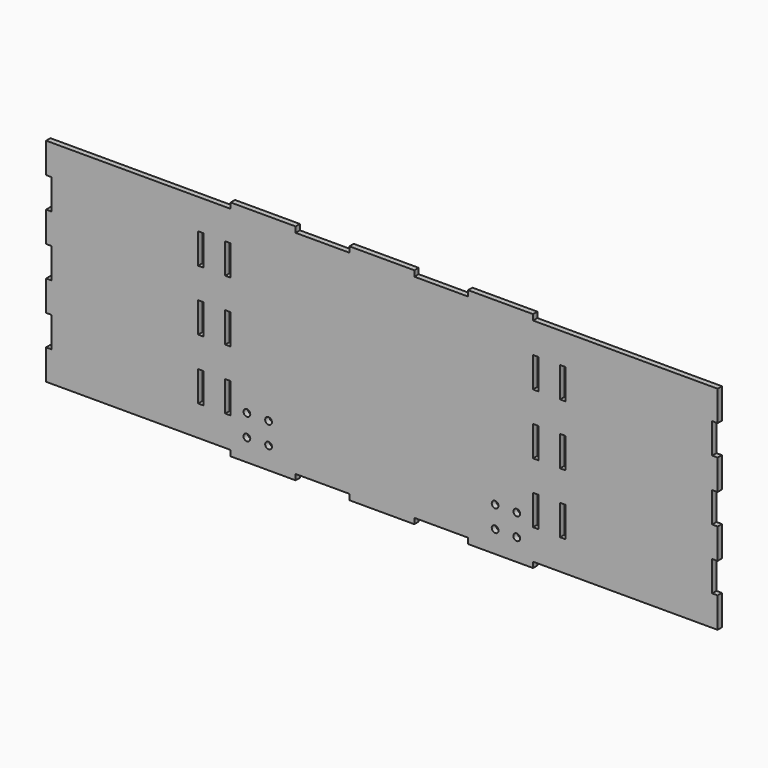
from build123d import *

# Parameters (mm, degrees)
F0_W     = 3.175
F0_H     = 17.78
F0_R     = 1.984375
F1_DEPTH = 3.175


with BuildPart() as f1:
    # F0 (on Front) → F1 (new body)
    with BuildSketch(Plane.XZ):
        Polygon((-88.646, -65.532), (-50.546, -65.532), (-50.546, -62.23), (-19.05, -62.23), (-19.05, -65.532), (19.05, -65.532), (19.05, -62.23), (50.546, -62.23), (50.546, -65.532), (88.646, -65.532), (88.646, -62.23), (107.696, -62.23), (196.85, -62.23), (196.85, -44.45), (193.675, -44.45), (193.675, -26.67), (196.85, -26.67), (196.85, -8.89), (193.675, -8.89), (193.675, 8.89), (196.85, 8.89), (196.85, 26.67), (193.675, 26.67), (193.675, 44.45), (196.85, 44.45), (196.85, 62.23), (107.696, 62.23), (88.646, 62.23), (88.646, 65.532), (50.546, 65.532), (50.546, 62.23), (19.05, 62.23), (19.05, 65.532), (-19.05, 65.532), (-19.05, 62.23), (-50.546, 62.23), (-50.546, 65.532), (-88.646, 65.532), (-88.646, 62.23), (-107.696, 62.23), (-196.85, 62.23), (-196.85, 44.45), (-193.675, 44.45), (-193.675, 26.67), (-196.85, 26.67), (-196.85, 8.89), (-193.675, 8.89), (-193.675, -8.89), (-196.85, -8.89), (-196.85, -26.67), (-193.675, -26.67), (-193.675, -44.45), (-196.85, -44.45), (-196.85, -62.23), (-107.696, -62.23), (-88.646, -62.23), align=None)
        with Locations((-106.1085, -35.56)):
            Rectangle(F0_W, F0_H, mode=Mode.SUBTRACT)
        with Locations((-79.121, -52.705)):
            Circle(F0_R, mode=Mode.SUBTRACT)
        with Locations((-66.421, -52.705)):
            Circle(F0_R, mode=Mode.SUBTRACT)
        with Locations((-79.121, -40.005)):
            Circle(F0_R, mode=Mode.SUBTRACT)
        with Locations((-90.2335, -35.56)):
            Rectangle(F0_W, F0_H, mode=Mode.SUBTRACT)
        with Locations((-66.421, -40.005)):
            Circle(F0_R, mode=Mode.SUBTRACT)
        with Locations((66.421, -52.705)):
            Circle(F0_R, mode=Mode.SUBTRACT)
        with Locations((79.121, -52.705)):
            Circle(F0_R, mode=Mode.SUBTRACT)
        with Locations((66.421, -40.005)):
            Circle(F0_R, mode=Mode.SUBTRACT)
        with Locations((79.121, -40.005)):
            Circle(F0_R, mode=Mode.SUBTRACT)
        with Locations((90.2335, -35.56)):
            Rectangle(F0_W, F0_H, mode=Mode.SUBTRACT)
        with Locations((106.1085, -35.56)):
            Rectangle(F0_W, F0_H, mode=Mode.SUBTRACT)
        with Locations((-106.1085, 0)):
            Rectangle(F0_W, F0_H, mode=Mode.SUBTRACT)
        with Locations((-90.2335, 0)):
            Rectangle(F0_W, F0_H, mode=Mode.SUBTRACT)
        with Locations((-106.1085, 35.56)):
            Rectangle(F0_W, F0_H, mode=Mode.SUBTRACT)
        with Locations((-90.2335, 35.56)):
            Rectangle(F0_W, F0_H, mode=Mode.SUBTRACT)
        with Locations((90.2335, 0)):
            Rectangle(F0_W, F0_H, mode=Mode.SUBTRACT)
        with Locations((106.1085, 0)):
            Rectangle(F0_W, F0_H, mode=Mode.SUBTRACT)
        with Locations((90.2335, 35.56)):
            Rectangle(F0_W, F0_H, mode=Mode.SUBTRACT)
        with Locations((106.1085, 35.56)):
            Rectangle(F0_W, F0_H, mode=Mode.SUBTRACT)
    extrude(amount=F1_DEPTH)


solid = f1.part
